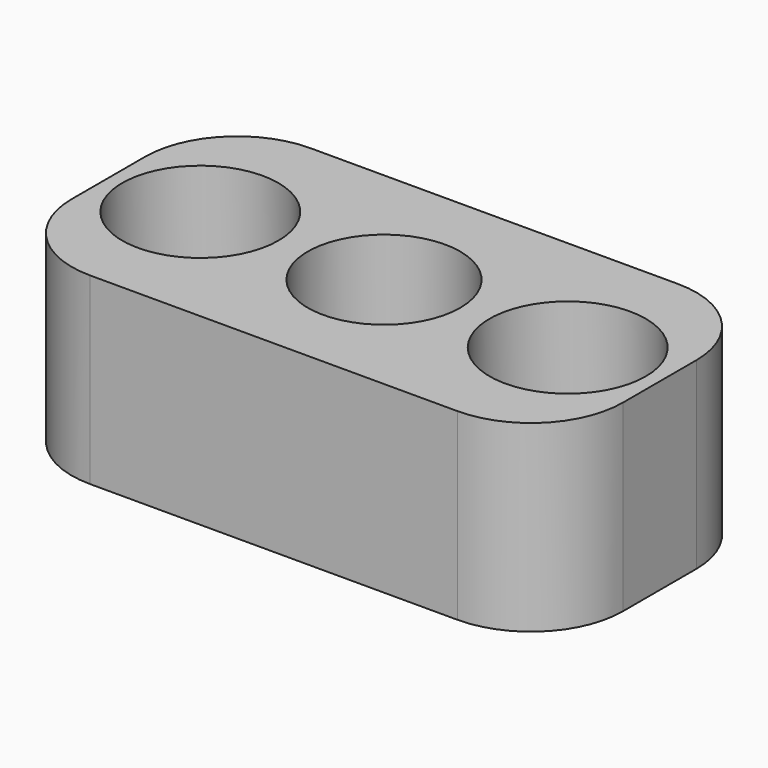
from build123d import *

# Parameters (mm, degrees)
F0_R     = 1.7
F0_R_2   = 4.15
F1_DEPTH = 10
F2_R     = 4.25
F3_DEPTH = 7.2


with BuildPart() as f1:
    # F0 (on Top) → F1 (new body)
    with BuildSketch(Plane.XY):
        with BuildLine():
            Line((-10, -7.5), (10, -7.5))
            ThreePointArc((10, -7.5), (13.535534, -6.035534), (15, -2.5))
            Line((15, -2.5), (15, 2.5))
            ThreePointArc((15, 2.5), (13.535534, 6.035534), (10, 7.5))
            Line((10, 7.5), (-10, 7.5))
            ThreePointArc((-10, 7.5), (-13.535534, 6.035534), (-15, 2.5))
            Line((-15, 2.5), (-15, -2.5))
            ThreePointArc((-15, -2.5), (-13.535534, -6.035534), (-10, -7.5))
        make_face()
        with Locations((-10, 0)):
            Circle(F0_R, mode=Mode.SUBTRACT)
        Circle(F0_R_2, mode=Mode.SUBTRACT)
        with Locations((10, 0)):
            Circle(F0_R, mode=Mode.SUBTRACT)
    extrude(amount=F1_DEPTH)

    # F2 (on face) → F3 (cut)
    with BuildSketch(Plane.XY.offset(10)):
        with Locations((-10, 0)):
            Circle(F2_R)
        with Locations((10, 0)):
            Circle(F2_R)
    extrude(amount=-F3_DEPTH, mode=Mode.SUBTRACT)


solid = f1.part
